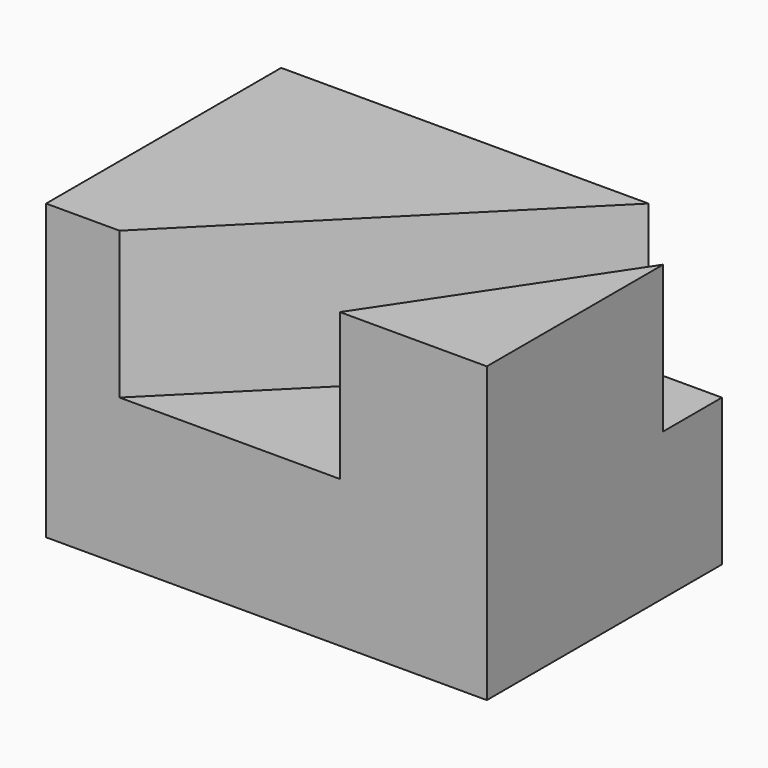
from build123d import *

# Parameters (mm, degrees)
F0_W     = 38.1
F0_H     = 25.4
F1_DEPTH = 25.4
F3_DEPTH = 12.7


with BuildPart() as f1:
    # F0 (on Top) → F1 (new body)
    with BuildSketch(Plane.XY):
        with Locations((19.05, 12.7)):
            Rectangle(F0_W, F0_H)
    extrude(amount=F1_DEPTH)

    # F2 (on face) → F3 (cut)
    with BuildSketch(Plane.XY.offset(25.4)):
        Polygon((31.75, 25.4), (6.35, 0), (25.4, 0), (38.1, 19.05), (38.1, 25.4), align=None)
    extrude(amount=-F3_DEPTH, mode=Mode.SUBTRACT)


solid = f1.part
